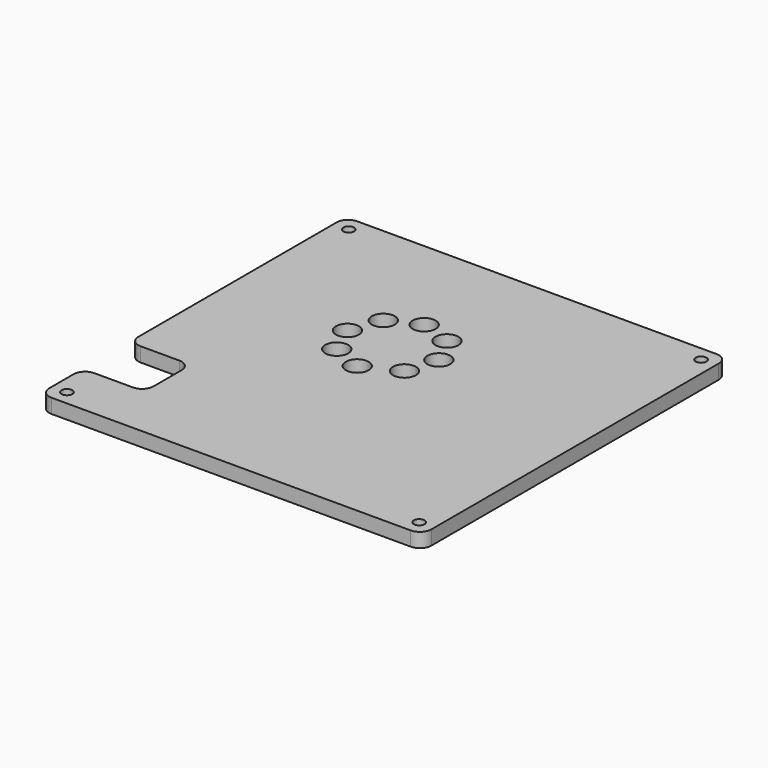
from build123d import *

# Parameters (mm, degrees)
F0_R     = 3.81
F1_DEPTH = 4.7625
F3_D     = 3.556
F4_R     = 3.81


with BuildPart() as f1:
    # F0 (on Top) → F1 (new body)
    with BuildSketch(Plane.XY):
        Polygon((66.738463, 63.5), (-60.261537, 63.5), (-60.261537, -26.4668), (-39.789137, -26.4668), (-39.789137, -45.7708), (-60.261537, -45.7708), (-60.261537, -63.5), (66.738463, -63.5), align=None)
        with Locations((-15.730162, 4.080383)):
            Circle(F0_R, mode=Mode.SUBTRACT)
        with Locations((-20.131484, 14.023047)):
            Circle(F0_R, mode=Mode.SUBTRACT)
        with Locations((-5.651537, 0)):
            Circle(F0_R, mode=Mode.SUBTRACT)
        with Locations((-16.376234, 24.227276)):
            Circle(F0_R, mode=Mode.SUBTRACT)
        with Locations((-6.579748, 28.945015)):
            Circle(F0_R, mode=Mode.SUBTRACT)
        with Locations((5.675161, 5.45465)):
            Circle(F0_R, mode=Mode.SUBTRACT)
        with Locations((8.768908, 15.878513)):
            Circle(F0_R, mode=Mode.SUBTRACT)
        with Locations((3.739601, 25.518755)):
            Circle(F0_R, mode=Mode.SUBTRACT)
    extrude(amount=F1_DEPTH)

    # F3 (through all)
    with Locations(Plane.XY.offset(4.7625)):
        with Locations((-55.308537, 58.547), (61.785463, 58.547), (-55.308537, -58.547), (61.785463, -58.547)):
            Hole(F3_D / 2)

    # F4
    f4_edges = [f1.edges().sort_by_distance(p)[0] for p in [
        (-60.261537, 63.5, 2.38125),
        (-60.261537, -63.5, 2.38125),
        (66.738463, -63.5, 2.38125),
        (66.738463, 63.5, 2.38125),
        (-60.261537, -26.4668, 2.38125),
        (-60.261537, -45.7708, 2.38125),
        (-39.789137, -26.4668, 2.38125),
        (-39.789137, -45.7708, 2.38125),
    ]]
    fillet(f4_edges, radius=F4_R)


solid = f1.part
